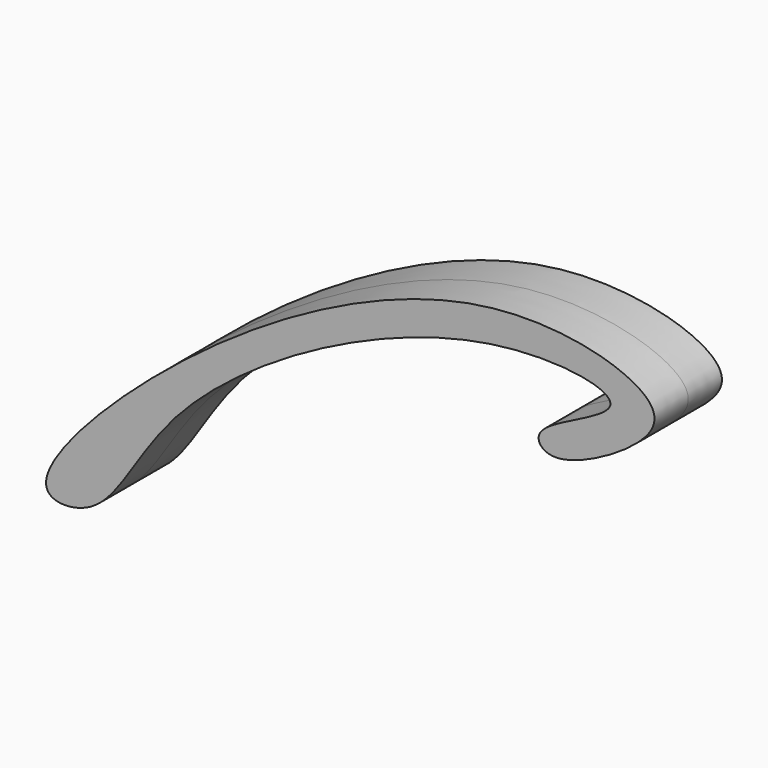
from build123d import *

# Parameters (mm, degrees)
F1_DEPTH = 3.81


with BuildPart() as f1:
    # F0 (on Front) → F1 (new body, symmetric)
    with BuildSketch(Plane.XZ):
        with BuildLine():
            add(Edge.make_bspline(
                [(0, 0), (2.6812723422, 1.5054125241), (6.2400496011, 12.2086137318), (33.1659152184, 27.1558546644), (51.4913723457, 23.9426603652), (40.85989162, 20.1811644767), (40.1932237391, 18.1940782214), (42.5985920595, 16.7545819759), (50.8045775816, 21.2885014571), (51.5632511292, 25.9531260641), (33.2846002364, 30.9897097186), (5.9558899659, 14.4299641326), (-7.0924919036, -0.9193447655), (-1.498511547, -0.8413461082), (0, 0)],
                knots=[0, 0, 0, 0, 0.0932409485, 0.2425909368, 0.3290286673, 0.397276975, 0.4305036637, 0.4669646841, 0.5456184091, 0.5902310378, 0.6917806474, 0.8472802785, 0.947889427, 1, 1, 1, 1], degree=3))
        make_face()
    extrude(amount=F1_DEPTH, both=True)


solid = f1.part
